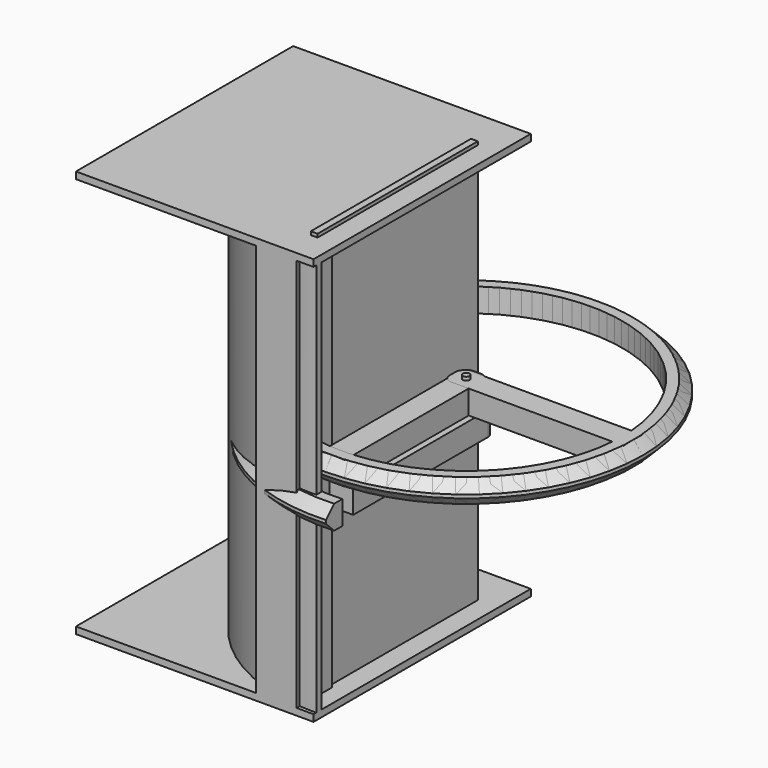
from build123d import *

# Parameters (mm, degrees)
CYLINDER007_R                = 12
CYLINDER007_DEPTH            = 120
BOX009_W                     = 12
BOX009_H                     = 13
BOX009_DEPTH                 = 120
BOX004_W                     = 70
BOX004_H                     = 80
BOX004_DEPTH                 = 2
BOX003_W                     = 2
BOX003_H                     = 59
BOX003_DEPTH                 = 120
BOX002_W                     = 70
BOX002_H                     = 70
BOX002_DEPTH                 = 120
CYLINDER003_R                = 50
CYLINDER003_DEPTH            = 120
CYLINDER004_R                = 52
CYLINDER004_DEPTH            = 120
BOX005_W                     = 70
BOX005_H                     = 80
BOX005_DEPTH                 = 2
CONE005_ROLL_ANGLE           = -90
CYLINDER002_R                = 1
CYLINDER002_DEPTH            = 15
CYLINDER014_R                = 2.8
CYLINDER014_DEPTH            = 3
CYLINDER016_R                = 2.8
CYLINDER016_DEPTH            = 1
BOX_W                        = 52
BOX_H                        = 7
BOX_DEPTH                    = 7
FILLET_R                     = 2.4
CYLINDER001_R                = 46
CYLINDER001_DEPTH            = 7
CYLINDER_R                   = 52
CYLINDER_DEPTH               = 7
CHAMFER_SIZE                 = 3
BOX001_W                     = 72
BOX001_H                     = 70
BOX001_DEPTH                 = 10
COMMON_PLACEMENT_ANGLE       = -45
CUT014_PLACEMENT_ANGLE       = -45
BOX010_W                     = 53
BOX010_H                     = 7
BOX010_DEPTH                 = 7
FILLET001_R                  = 2.4
CYLINDER018_R                = 46
CYLINDER018_DEPTH            = 7
CYLINDER017_R                = 52
CYLINDER017_DEPTH            = 7
CHAMFER001_SIZE              = 3
FUSION007017_PLACEMENT_ANGLE = -90
CYLINDER019_R                = 1
CYLINDER019_DEPTH            = 15
BOX011_W                     = 53
BOX011_H                     = 7
BOX011_DEPTH                 = 7
FILLET002_R                  = 2.4
CYLINDER021_R                = 46
CYLINDER021_DEPTH            = 7
CYLINDER020_R                = 52
CYLINDER020_DEPTH            = 7
CHAMFER002_SIZE              = 3


with BuildPart() as cylinder007:
    # Cylinder007 → Cylinder007 (new body)
    with BuildSketch(Plane(origin=(-17, -46, -60), x_dir=(1, 0, 0), z_dir=(0, 0, 1))):
        Circle(CYLINDER007_R)
    extrude(amount=CYLINDER007_DEPTH)


with BuildPart() as cut003:
    # Box009 → Box009 (new body)
    with BuildSketch(Plane(origin=(-16, -63, -60), x_dir=(1, 0, 0), z_dir=(0, 0, 1))):
        with Locations((6, 6.5)):
            Rectangle(BOX009_W, BOX009_H)
    extrude(amount=BOX009_DEPTH)

    # Cut003: cut Cylinder007
    add(cylinder007.part, mode=Mode.SUBTRACT)


with BuildPart() as cube004:
    # Box004 → Box004 (new body)
    with BuildSketch(Plane(origin=(-69, -63, -60), x_dir=(1, 0, 0), z_dir=(0, 0, 1))):
        with Locations((35, 40)):
            Rectangle(BOX004_W, BOX004_H)
    extrude(amount=BOX004_DEPTH)


with BuildPart() as cube003:
    # Box003 → Box003 (new body)
    with BuildSketch(Plane(origin=(-7, -54, -59), x_dir=(1, 0, 0), z_dir=(0, 0, 1))):
        with Locations((1, 29.5)):
            Rectangle(BOX003_W, BOX003_H)
    extrude(amount=BOX003_DEPTH)


with BuildPart() as cube002:
    # Box002 → Box002 (new body)
    with BuildSketch(Plane(origin=(-69, -70, -60), x_dir=(1, 0, 0), z_dir=(0, 0, 1))):
        with Locations((35, 35)):
            Rectangle(BOX002_W, BOX002_H)
    extrude(amount=BOX002_DEPTH)


with BuildPart() as cylinder003:
    # Cylinder003 → Cylinder003 (new body)
    with BuildSketch(Plane.XY.offset(-60)):
        Circle(CYLINDER003_R)
    extrude(amount=CYLINDER003_DEPTH)


with BuildPart() as fusion007002:
    # Cylinder004 → Cylinder004 (new body)
    with BuildSketch(Plane.XY.offset(-60)):
        Circle(CYLINDER004_R)
    extrude(amount=CYLINDER004_DEPTH)

    # Cut001: cut Cylinder003
    add(cylinder003.part, mode=Mode.SUBTRACT)

    # Common001: intersect Cube002
    add(cube002.part, mode=Mode.INTERSECT)


with BuildPart() as fusion007002_1:
    # Common001 placement: moved
    add(fusion007002.part.moved(Location((0, -10, 0))))

    # Fusion007002: union Cube003
    add(cube003.part)


with BuildPart() as curve:
    # Box005 → Box005 (new body)
    with BuildSketch(Plane(origin=(-69, -63, 58), x_dir=(1, 0, 0), z_dir=(0, 0, 1))):
        with Locations((35, 40)):
            Rectangle(BOX005_W, BOX005_H)
    extrude(amount=BOX005_DEPTH)

    # Fusion007003: union Cube004, Fusion007002
    add(cube004.part)
    add(fusion007002_1.part)

    # Fusion007006: union Cut003
    add(cut003.part)


with BuildPart() as curve_1:
    # Fusion007006 placement: moved
    add(curve.part.moved(Location((-2, 6, 0))))


with BuildPart() as cone005:
    # Cone005 → Cone005 (revolve)
    with BuildSketch(Plane.XZ):
        Polygon((0, 0), (0.1, 0), (2, 1), (0, 1), align=None)
    revolve(axis=Axis((0, 0, 0), (0, 0, 1)))


with BuildPart() as cone005_1:
    # Cone005 roll: moved
    add(cone005.part.rotate(Axis((0, 0, 0), (1, 0, 0)), CONE005_ROLL_ANGLE))


with BuildPart() as cone005_2:
    # Cone005 placement: moved
    add(cone005_1.part.moved(Location((-57, 10, -5))))


with BuildPart() as obj1:
    # Cylinder002 → Cylinder002 (new body)
    with BuildSketch(Plane.XY.offset(-7)):
        Circle(CYLINDER002_R)
    extrude(amount=CYLINDER002_DEPTH)


with BuildPart() as cylinder014:
    # Cylinder014 → Cylinder014 (new body)
    with BuildSketch(Plane.XY.offset(-8.5)):
        Circle(CYLINDER014_R)
    extrude(amount=CYLINDER014_DEPTH)


with BuildPart() as fusion007016:
    # Cylinder016 → Cylinder016 (new body)
    with BuildSketch(Plane.XY.offset(-2)):
        Circle(CYLINDER016_R)
    extrude(amount=CYLINDER016_DEPTH)

    # Fusion007016: union Cylinder014
    add(cylinder014.part)


with BuildPart() as fillet_body:
    # Box → Box (new body)
    with BuildSketch(Plane(origin=(-4, -3.5, 0), x_dir=(1, 0, 0), z_dir=(0, 0, 1))):
        with Locations((26, 3.5)):
            Rectangle(BOX_W, BOX_H)
    extrude(amount=BOX_DEPTH)

    # Fillet
    fillet_edges = [fillet_body.edges().sort_by_distance(p)[0] for p in [
        (-4, -3.5, 3.5),
        (-4, 3.5, 3.5),
    ]]
    fillet(fillet_edges, radius=FILLET_R)


with BuildPart() as cylinder001:
    # Cylinder001 → Cylinder001 (new body)
    with BuildSketch(Plane.XY):
        Circle(CYLINDER001_R)
    extrude(amount=CYLINDER001_DEPTH)


with BuildPart() as fusion:
    # Cylinder → Cylinder (new body)
    with BuildSketch(Plane.XY):
        Circle(CYLINDER_R)
    extrude(amount=CYLINDER_DEPTH)

    # Chamfer
    chamfer_edges = [fusion.edges().sort_by_distance(p)[0] for p in [
        (-52, 0, 7),
        (-52, 0, 0),
    ]]
    chamfer(chamfer_edges, length=CHAMFER_SIZE)

    # Cut: cut Cylinder001
    add(cylinder001.part, mode=Mode.SUBTRACT)


with BuildPart() as fusion_1:
    # Cut placement: moved
    add(fusion.part.moved(Location((8, 2, 0))))

    # Fusion: union Fillet body
    add(fillet_body.part)


with BuildPart() as arm:
    # Box001 → Box001 (new body)
    with BuildSketch(Plane(origin=(-11, -65, -1), x_dir=(1, 0, 0), z_dir=(0, 0, 1))):
        with Locations((36, 35)):
            Rectangle(BOX001_W, BOX001_H)
    extrude(amount=BOX001_DEPTH)

    # Common: intersect Fusion
    add(fusion_1.part, mode=Mode.INTERSECT)


with BuildPart() as arm_1:
    # Common placement: moved
    add(arm.part.moved(Location((0, 0, -8.5))).rotate(Axis((0, 0, -8.5), (0, 0, 1)), COMMON_PLACEMENT_ANGLE))

    # Cut012: cut Fusion007016
    add(fusion007016.part, mode=Mode.SUBTRACT)

    # Cut014: cut obj1
    add(obj1.part, mode=Mode.SUBTRACT)


with BuildPart() as arm_2:
    # Cut014 placement: moved
    add(arm_1.part.rotate(Axis((0, 0, 0), (0, 0, 1)), CUT014_PLACEMENT_ANGLE))

    # Cut025: cut Cone005
    add(cone005_2.part, mode=Mode.SUBTRACT)


with BuildPart() as fillet001:
    # Box010 → Box010 (new body)
    with BuildSketch(Plane(origin=(-4, -3.5, 0), x_dir=(1, 0, 0), z_dir=(0, 0, 1))):
        with Locations((26.5, 3.5)):
            Rectangle(BOX010_W, BOX010_H)
    extrude(amount=BOX010_DEPTH)

    # Fillet001
    fillet001_edges = [fillet001.edges().sort_by_distance(p)[0] for p in [
        (-4, -3.5, 3.5),
        (-4, 3.5, 3.5),
    ]]
    fillet(fillet001_edges, radius=FILLET001_R)


with BuildPart() as fillet001_1:
    # Fillet001 placement: moved
    add(fillet001.part.moved(Location((2, -8, 0))))


with BuildPart() as cylinder018:
    # Cylinder018 → Cylinder018 (new body)
    with BuildSketch(Plane(origin=(2, -8, 0), x_dir=(1, 0, 0), z_dir=(0, 0, 1))):
        Circle(CYLINDER018_R)
    extrude(amount=CYLINDER018_DEPTH)


with BuildPart() as fusion007017:
    # Cylinder017 → Cylinder017 (new body)
    with BuildSketch(Plane(origin=(2, -8, 0), x_dir=(1, 0, 0), z_dir=(0, 0, 1))):
        Circle(CYLINDER017_R)
    extrude(amount=CYLINDER017_DEPTH)

    # Chamfer001
    chamfer001_edges = [fusion007017.edges().sort_by_distance(p)[0] for p in [
        (-50, -8, 7),
        (-50, -8, 0),
    ]]
    chamfer(chamfer001_edges, length=CHAMFER001_SIZE)

    # Cut026: cut Cylinder018
    add(cylinder018.part, mode=Mode.SUBTRACT)

    # Fusion007017: union Fillet001
    add(fillet001_1.part)


with BuildPart() as fusion007017_1:
    # Fusion007017 placement: moved
    add(fusion007017.part.moved(Location((8, 0, 0))).rotate(Axis((8, 0, 0), (0, 0, 1)), FUSION007017_PLACEMENT_ANGLE))


with BuildPart() as obj2:
    # Cylinder019 → Cylinder019 (new body)
    with BuildSketch(Plane(origin=(0, -2, -7), x_dir=(1, 0, 0), z_dir=(0, 0, 1))):
        Circle(CYLINDER019_R)
    extrude(amount=CYLINDER019_DEPTH)


with BuildPart() as fillet002:
    # Box011 → Box011 (new body)
    with BuildSketch(Plane(origin=(-4, -3.5, 0), x_dir=(1, 0, 0), z_dir=(0, 0, 1))):
        with Locations((26.5, 3.5)):
            Rectangle(BOX011_W, BOX011_H)
    extrude(amount=BOX011_DEPTH)

    # Fillet002
    fillet002_edges = [fillet002.edges().sort_by_distance(p)[0] for p in [
        (-4, -3.5, 3.5),
        (-4, 3.5, 3.5),
    ]]
    fillet(fillet002_edges, radius=FILLET002_R)


with BuildPart() as fillet002_1:
    # Fillet002 placement: moved
    add(fillet002.part.moved(Location((2, -8, 0))))


with BuildPart() as cylinder021:
    # Cylinder021 → Cylinder021 (new body)
    with BuildSketch(Plane(origin=(2, -8, 0), x_dir=(1, 0, 0), z_dir=(0, 0, 1))):
        Circle(CYLINDER021_R)
    extrude(amount=CYLINDER021_DEPTH)


with BuildPart() as fusion007018:
    # Cylinder020 → Cylinder020 (new body)
    with BuildSketch(Plane(origin=(2, -8, 0), x_dir=(1, 0, 0), z_dir=(0, 0, 1))):
        Circle(CYLINDER020_R)
    extrude(amount=CYLINDER020_DEPTH)

    # Chamfer002
    chamfer002_edges = [fusion007018.edges().sort_by_distance(p)[0] for p in [
        (-50, -8, 7),
        (-50, -8, 0),
    ]]
    chamfer(chamfer002_edges, length=CHAMFER002_SIZE)

    # Cut027: cut Cylinder021
    add(cylinder021.part, mode=Mode.SUBTRACT)

    # Fusion007018: union Fillet002
    add(fillet002_1.part)


with BuildPart() as fusion007018_1:
    # Fusion007018 placement: moved
    add(fusion007018.part.moved(Location((-2, 6, 0))))


solid = Compound([curve_1.part, arm_2.part, fusion007017_1.part, obj2.part, fusion007018_1.part])
